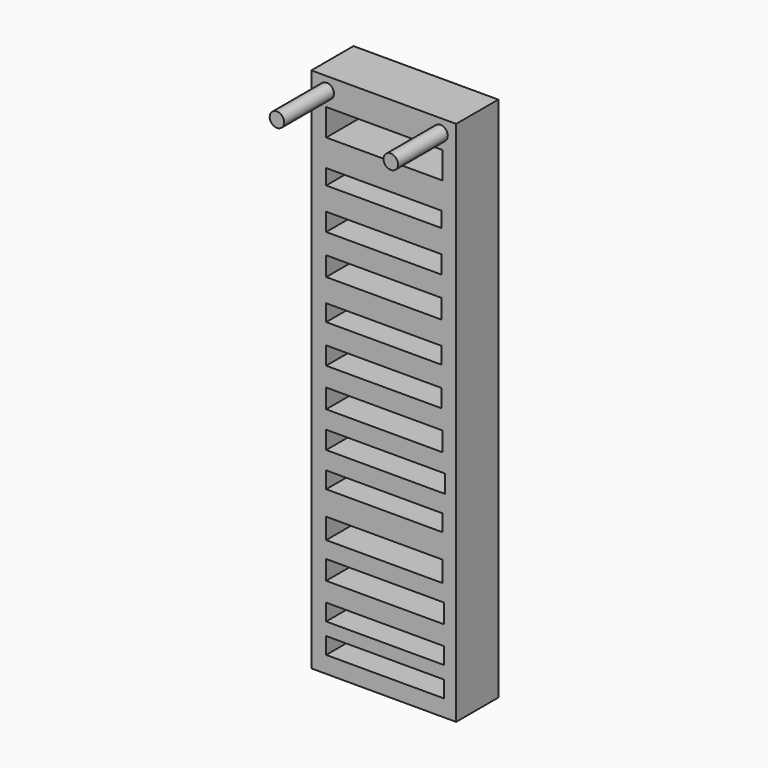
from build123d import *

# Parameters (mm, degrees)
F0_W     = 69.85
F0_H     = 254
F1_DEPTH = 25.4
F2_W     = 55.55453
F2_H     = 7.407263
F2_H_2   = 8.641817
F2_H_3   = 9.25909
F2_H_4   = 8.024544
F2_W_2   = 56.171801
F2_H_5   = 9.259089
F2_W_3   = 57.406345
F2_H_6   = 8.641819
F2_H_7   = 8.024541
F2_H_8   = 9.961726
F2_W_4   = 56.789074
F2_H_9   = 9.25908
F2_H_10  = 8.02454
F2_H_11  = 12.962729
F3_DEPTH = 25.4
F4_R     = 3.5
F5_DEPTH = 30


with BuildPart() as f1:
    # F0 (on Front) → F1 (new body)
    with BuildSketch(Plane.XZ):
        with Locations((-0.601145, 60.209312)):
            Rectangle(F0_W, F0_H)
    extrude(amount=F1_DEPTH)

    # F2 (on face) → F3 (cut, through all)
    with BuildSketch(Plane(origin=(0, 0, 0), x_dir=(-1, 0, 0), z_dir=(0, 1, 0))):
        with Locations((0.600389, 144.356407)):
            Rectangle(F2_W, F2_H)
        with Locations((0.600389, 125.220966)):
            Rectangle(F2_W, F2_H_2)
        with Locations((0.600389, 106.394149)):
            Rectangle(F2_W, F2_H_3)
        with Locations((0.600389, 86.641431)):
            Rectangle(F2_W, F2_H_4)
        with Locations((0.600389, 68.431888)):
            Rectangle(F2_W, F2_H_2)
        with Locations((0.291754, 50.222348)):
            Rectangle(F2_W_2, F2_H_5)
        with Locations((-0.325518, 32.630081)):
            Rectangle(F2_W_3, F2_H_6)
        with Locations((0.291754, 15.655086)):
            Rectangle(F2_W_2, F2_H_7)
        with Locations((0.291754, -4.980863)):
            Rectangle(F2_W_2, F2_H_8)
        with Locations((-0.016883, -22.615812)):
            Rectangle(F2_W_4, F2_H_9)
        with Locations((-0.016883, -40.516714)):
            Rectangle(F2_W_4, F2_H_10)
        with Locations((-0.016883, -54.713981)):
            Rectangle(F2_W_4, F2_H_10)
        with Locations((0.291754, 167.504131)):
            Rectangle(F2_W_2, F2_H_11)
    extrude(amount=-F3_DEPTH, mode=Mode.SUBTRACT)

    # F4 (on face) → F5 (join)
    with BuildSketch(Plane.XZ.offset(25.4)):
        with Locations((-28.126128, 180.871427)):
            Circle(F4_R)
        with Locations((26.781848, 180.871427)):
            Circle(F4_R)
    extrude(amount=F5_DEPTH)


solid = f1.part
